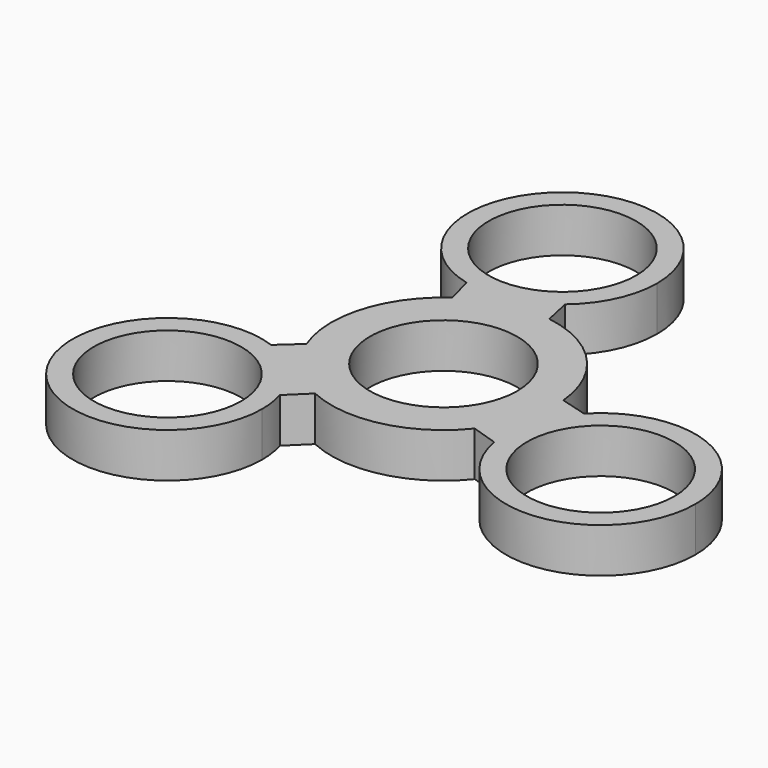
from build123d import *

# Parameters (mm, degrees)
F0_R     = 10.5
F1_DEPTH = 6.35


with BuildPart() as f1:
    # F0 (on Top) → F1 (new body)
    with BuildSketch(Plane.XY):
        with BuildLine():
            ThreePointArc((6.44846, 29.992483), (-15.414201, 40.590403), (-10.190932, 16.862585))
            ThreePointArc((-10.190932, 16.862585), (-3.961799, 16.850813), (1.609508, 19.63699))
            ThreePointArc((1.609508, 19.63699), (5.17904, 24.277334), (6.44846, 29.992483))
        make_face()
        with Locations((-7.05154, 29.992483)):
            Circle(F0_R, mode=Mode.SUBTRACT)
        with BuildLine():
            Line((-14.895684, -5.7813), (-6.689736, -14.510419))
            ThreePointArc((-6.689736, -14.510419), (3.65694, -15.554151), (12.454594, -10.00939))
            Line((12.454594, -10.00939), (16.201378, -11.21237))
            ThreePointArc((16.201378, -11.21237), (16.574131, -4.994388), (19.698893, 0.394313))
            Line((19.698893, 0.394313), (15.911259, 1.461728))
            ThreePointArc((15.911259, 1.461728), (11.64182, 10.944078), (2.441089, 15.79069))
            Line((2.441089, 15.79069), (1.609508, 19.63699))
            ThreePointArc((1.609508, 19.63699), (-3.961799, 16.850813), (-10.190932, 16.862585))
            Line((-10.190932, 16.862585), (-9.221523, 13.048691))
            ThreePointArc((-9.221523, 13.048691), (-15.29876, 4.610072), (-14.895684, -5.7813))
        make_face()
        Circle(F0_R, mode=Mode.SUBTRACT)
        with BuildLine():
            Line((-9.507961, -17.256899), (-6.689736, -14.510419))
            Line((-6.689736, -14.510419), (-14.895684, -5.7813))
            Line((-14.895684, -5.7813), (-17.810886, -8.42462))
            ThreePointArc((-17.810886, -8.42462), (-12.612333, -11.856425), (-9.507961, -17.256899))
        make_face()
        with BuildLine():
            ThreePointArc((19.698893, 0.394313), (16.574131, -4.994388), (16.201378, -11.21237))
            ThreePointArc((16.201378, -11.21237), (30.665848, -22.338996), (43.000022, -8.889429))
            ThreePointArc((43.000022, -8.889429), (34.496759, 3.651808), (19.698893, 0.394313))
        make_face()
        with Locations((29.500022, -8.889429)):
            Circle(F0_R, mode=Mode.SUBTRACT)
        with BuildLine():
            ThreePointArc((-8.948482, -21.103054), (-9.089084, -19.159737), (-9.507961, -17.256899))
            ThreePointArc((-9.507961, -17.256899), (-12.612333, -11.856425), (-17.810886, -8.42462))
            ThreePointArc((-17.810886, -8.42462), (-33.513236, -28.837472), (-8.948482, -21.103054))
        make_face()
        with Locations((-22.448482, -21.103054)):
            Circle(F0_R, mode=Mode.SUBTRACT)
    extrude(amount=F1_DEPTH)


solid = f1.part
